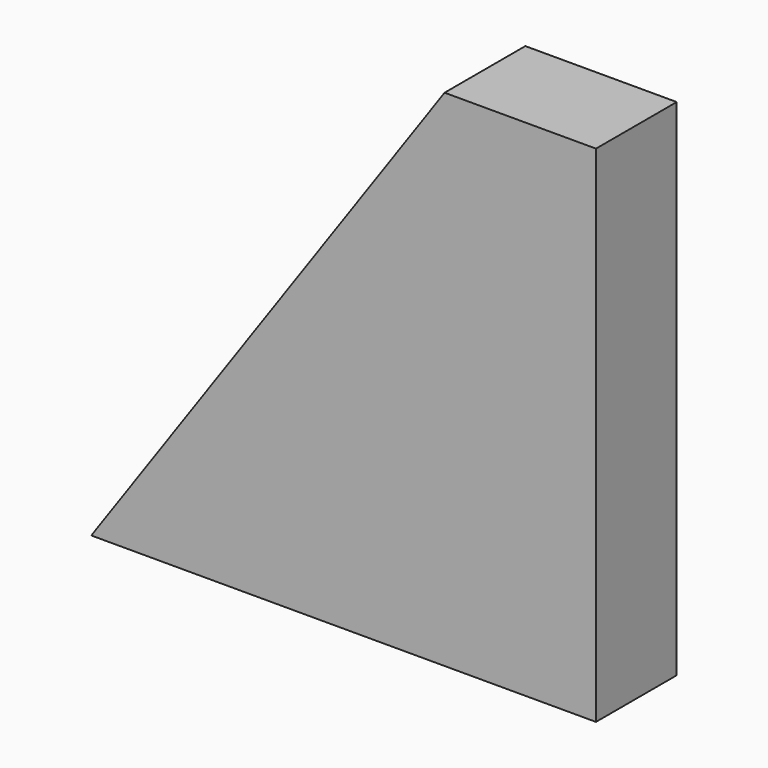
from build123d import *

# Parameters (mm, degrees)
PAD_DEPTH = 10


with BuildPart() as part:
    # Sketch → Pad (new body)
    with BuildSketch(Plane.XZ):
        Polygon((0, 0), (35, 50), (50, 50), (50, 0), align=None)
    extrude(amount=PAD_DEPTH)


solid = part.part
